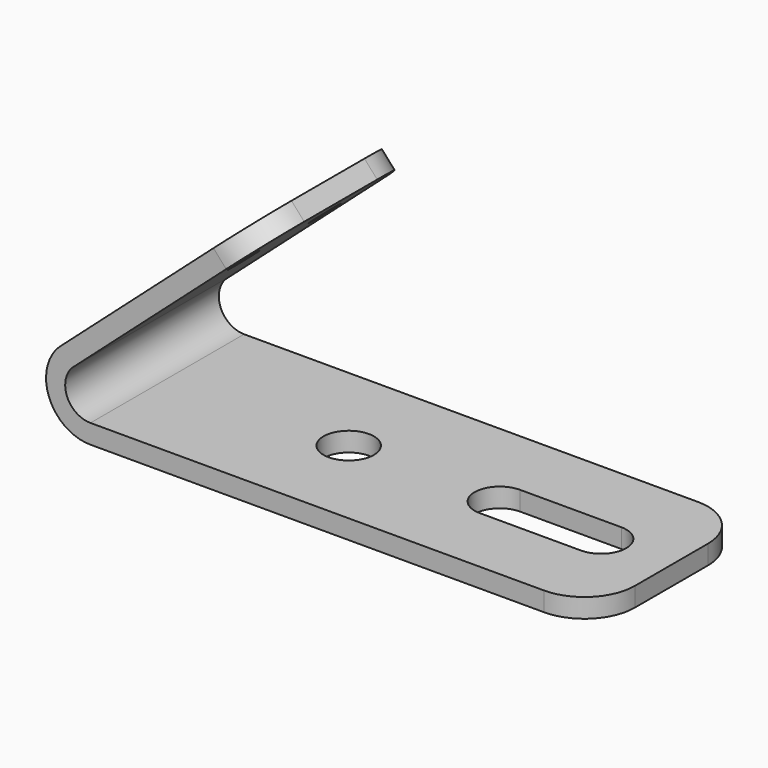
from build123d import *

# Parameters (mm, degrees)
F0_W          = 1270
F0_H          = 48.26
F1_DEPTH      = 483.87
F2_R          = 127
F3_R          = 127
F4_R          = 38.1
F5_DEPTH      = 119.38
F6_R          = 63.5
F7_DEPTH      = 76.2
F7_DEPTH_BACK = 76.2


with BuildPart() as f1:
    # F0 (on Front) → F1 (new body)
    with BuildSketch(Plane.XZ):
        with Locations((271.5897267231, -0.2383861614)):
            Rectangle(F0_W, F0_H)
        with BuildLine():
            Line((-363.4102732769, -24.3683861614), (-363.4102732769, 23.8916138386))
            ThreePointArc((-363.4102732769, 23.8916138386), (-423.8304438336, 67.7016554332), (-400.9706434856, 138.7463335075))
            Line((-400.9706434856, 138.7463335075), (-433.0378788647, 174.8118296935))
            ThreePointArc((-433.0378788647, 174.8118296935), (-468.9099911057, 50.5119834442), (-363.4102732769, -24.3683861614))
        make_face()
        Polygon((-433.0378788647, 174.8118296935), (-400.9706434856, 138.7463335075), (73.5753589619, 560.6836411268), (41.5081235828, 596.7491373128), align=None)
    extrude(amount=F1_DEPTH)

    # F2
    f2_edges = [f1.edges().sort_by_distance(p)[0] for p in [
        (57.541741, 0, 578.716389),
        (57.541741, -483.87, 578.716389),
    ]]
    fillet(f2_edges, radius=F2_R)

    # F3
    f3_edges = [f1.edges().sort_by_distance(p)[0] for p in [
        (906.589727, -483.87, -0.238386),
        (906.589727, 0, -0.238386),
    ]]
    fillet(f3_edges, radius=F3_R)

    # F4 (on face) → F5 (cut)
    with BuildSketch(Plane(origin=(-277.999987923, 0, 312.6620485248), x_dir=(0.7473165393, 0, 0.664468201), z_dir=(-0.664468201, 0, 0.7473165393))):
        with Locations((237.0405329721, -114.3)):
            Circle(F4_R)
        with Locations((237.0405329721, -369.57)):
            Circle(F4_R)
    extrude(amount=-F5_DEPTH, mode=Mode.SUBTRACT)

    # F6 (on face) → F7 (cut, two sides)
    with BuildSketch(Plane.XY.offset(23.8916138386)) as f7_sk:
        with Locations((93.7897267231, -241.935)):
            Circle(F6_R)
        with BuildLine():
            ThreePointArc((538.0487868786, -241.935), (519.4500674839, -197.0337193947), (474.5487868786, -178.435))
            ThreePointArc((474.5487868786, -178.435), (411.0487868786, -241.935), (474.5487868786, -305.435))
            ThreePointArc((474.5487868786, -305.435), (519.4500674839, -286.8362806053), (538.0487868786, -241.935))
        make_face()
        with BuildLine():
            ThreePointArc((729.6141386032, -305.435), (666.1141386032, -241.935), (729.6141386032, -178.435))
            Line((729.6141386032, -178.435), (474.5487868786, -178.435))
            ThreePointArc((474.5487868786, -178.435), (519.4500674839, -197.0337193947), (538.0487868786, -241.935))
            ThreePointArc((538.0487868786, -241.935), (519.4500674839, -286.8362806053), (474.5487868786, -305.435))
            Line((474.5487868786, -305.435), (729.6141386032, -305.435))
        make_face()
        with BuildLine():
            ThreePointArc((729.6141386032, -305.435), (774.5154192086, -286.8362806053), (793.1141386032, -241.935))
            ThreePointArc((793.1141386032, -241.935), (774.5154192086, -197.0337193947), (729.6141386032, -178.435))
            ThreePointArc((729.6141386032, -178.435), (666.1141386032, -241.935), (729.6141386032, -305.435))
        make_face()
    extrude(amount=-F7_DEPTH, mode=Mode.SUBTRACT)
    extrude(f7_sk.sketch, amount=F7_DEPTH_BACK, mode=Mode.SUBTRACT)


solid = f1.part
